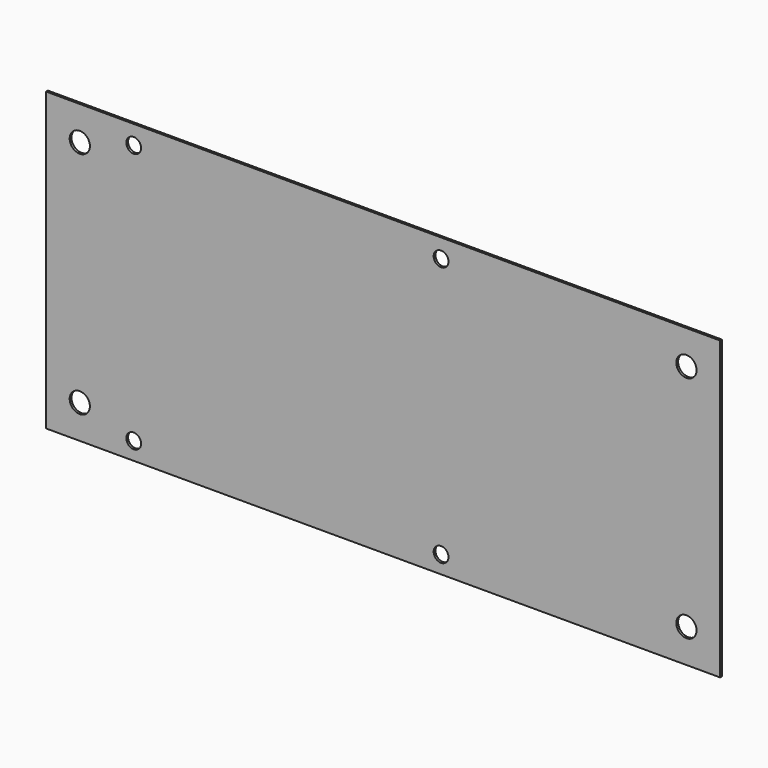
from build123d import *

# Parameters (mm, degrees)
F0_W     = 127
F0_H     = 55.88
F0_R     = 1.905
F0_R_2   = 1.397
F1_DEPTH = 0.4191


with BuildPart() as f1:
    # F0 (on Front) → F1 (new body)
    with BuildSketch(Plane.XZ):
        with Locations((63.5, 27.94)):
            Rectangle(F0_W, F0_H)
        with Locations((6.35, 6.35)):
            Circle(F0_R, mode=Mode.SUBTRACT)
        with Locations((16.51, 3.302)):
            Circle(F0_R_2, mode=Mode.SUBTRACT)
        with Locations((74.422, 3.302)):
            Circle(F0_R_2, mode=Mode.SUBTRACT)
        with Locations((120.65, 6.35)):
            Circle(F0_R, mode=Mode.SUBTRACT)
        with Locations((6.35, 49.53)):
            Circle(F0_R, mode=Mode.SUBTRACT)
        with Locations((16.51, 52.324)):
            Circle(F0_R_2, mode=Mode.SUBTRACT)
        with Locations((74.422, 52.324)):
            Circle(F0_R_2, mode=Mode.SUBTRACT)
        with Locations((120.65, 49.53)):
            Circle(F0_R, mode=Mode.SUBTRACT)
    extrude(amount=F1_DEPTH)


solid = f1.part
